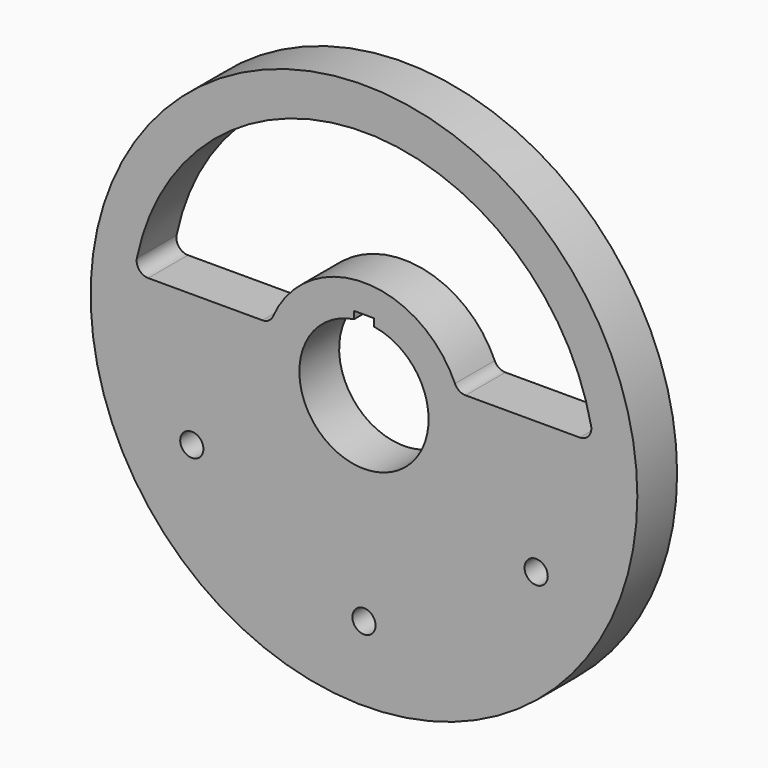
from build123d import *

# Parameters (mm, degrees)
F0_R     = 82.5
F0_R_2   = 3.5
F1_DEPTH = 15
F2_R     = 3.5


with BuildPart() as f1:
    # F0 (on Front) → F1 (new body)
    with BuildSketch(Plane.XZ):
        Circle(F0_R)
        with Locations((-51.961524, -30)):
            Circle(F0_R_2, mode=Mode.SUBTRACT)
        with BuildLine():
            ThreePointArc((0, -56.5), (2.474874, -57.525126), (3.5, -60))
            ThreePointArc((3.5, -60), (-2.474874, -62.474874), (0, -56.5))
        make_face(mode=Mode.SUBTRACT)
        with BuildLine():
            ThreePointArc((55.461524, -30), (51.055658, -33.38074), (48.930435, -28.25))
            ThreePointArc((48.930435, -28.25), (52.867391, -26.61926), (55.461524, -30))
        make_face(mode=Mode.SUBTRACT)
        with BuildLine():
            ThreePointArc((19.5, 0), (18.835554, -5.046971), (16.887495, -9.75))
            ThreePointArc((16.887495, -9.75), (-16.084916, -11.02386), (-3, 19.267849))
            Line((-3, 19.267849), (-3, 21.5))
            Line((-3, 21.5), (0, 21.5))
            Line((0, 21.5), (3, 21.5))
            Line((3, 21.5), (3, 19.267849))
            ThreePointArc((3, 19.267849), (14.811313, 12.683651), (19.5, 0))
        make_face(mode=Mode.SUBTRACT)
        with BuildLine():
            Line((-28.284271, 10), (-69.282032, 10))
            ThreePointArc((-69.282032, 10), (0, 70), (69.282032, 10))
            Line((69.282032, 10), (28.284271, 10))
            ThreePointArc((28.284271, 10), (0, 30), (-28.284271, 10))
        make_face(mode=Mode.SUBTRACT)
    extrude(amount=F1_DEPTH)

    # F2
    f2_edges = [f1.edges().sort_by_distance(p)[0] for p in [
        (69.282032, -7.5, 10),
        (-69.282032, -7.5, 10),
        (-28.284271, -7.5, 10),
        (28.284271, -7.5, 10),
    ]]
    fillet(f2_edges, radius=F2_R)


solid = f1.part
